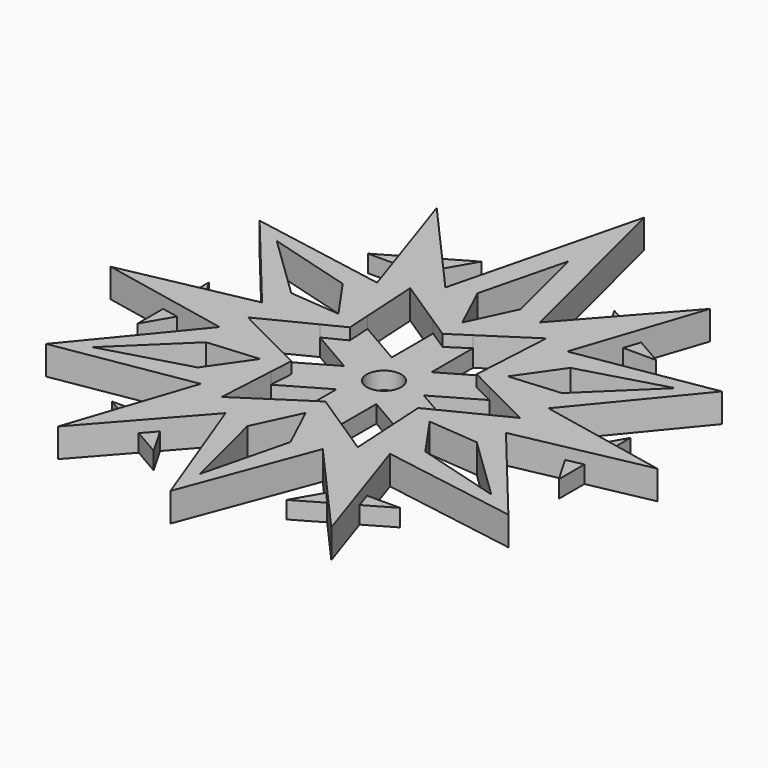
from build123d import *

# Parameters (mm, degrees)
F1_DEPTH = 1
F2_R     = 0.6
F3_DEPTH = 25
F5_DEPTH = 0.4
F7_DEPTH = 0.6


with BuildPart() as f1:
    # F0 (on Top) → F1 (new body)
    with BuildSketch(Plane.XY):
        with BuildLine():
            Line((0, 11.298485), (-1.644133, 4.721951))
            ThreePointArc((-1.644133, 4.721951), (-2.5, 4.330127), (-3.267263, 3.784837))
            Line((-3.267263, 3.784837), (-8.035331, 4.6392))
            Line((-8.035331, 4.6392), (-4.978388, 0.923433))
            Line((-4.978388, 0.923433), (-4.92561, 0.859281))
            ThreePointArc((-4.92561, 0.859281), (-5, 0), (-4.92561, -0.859281))
            Line((-4.92561, -0.859281), (-4.978388, -0.923433))
            Line((-4.978388, -0.923433), (-8.035331, -4.6392))
            Line((-8.035331, -4.6392), (-3.288911, -3.849694))
            Line((-3.288911, -3.849694), (-3.206964, -3.836063))
            ThreePointArc((-3.206964, -3.836063), (-2.5, -4.330127), (-1.718646, -4.695344))
            Line((-1.718646, -4.695344), (-1.689478, -4.773127))
            Line((-1.689478, -4.773127), (0, -9.278401))
            Line((0, -9.278401), (1.689478, -4.773127))
            Line((1.689478, -4.773127), (1.718646, -4.695344))
            ThreePointArc((1.718646, -4.695344), (2.5, -4.330127), (3.206964, -3.836063))
            Line((3.206964, -3.836063), (3.288911, -3.849694))
            Line((3.288911, -3.849694), (8.035331, -4.6392))
            Line((8.035331, -4.6392), (4.978388, -0.923433))
            Line((4.978388, -0.923433), (4.92561, -0.859281))
            ThreePointArc((4.92561, -0.859281), (5, 0), (4.92561, 0.859281))
            Line((4.92561, 0.859281), (4.978388, 0.923433))
            Line((4.978388, 0.923433), (8.035331, 4.6392))
            Line((8.035331, 4.6392), (3.288911, 3.849694))
            Line((3.288911, 3.849694), (3.206964, 3.836063))
            ThreePointArc((3.206964, 3.836063), (2.465661, 4.349772), (1.644133, 4.721951))
            Line((1.644133, 4.721951), (0, 11.298485))
        make_face()
        Polygon((-4.705127, -1.850481), (-3.955127, -3.149519), (-6.928203, -4), align=None, mode=Mode.SUBTRACT)
        Polygon((-0.75, -5), (0.75, -5), (0, -8), align=None, mode=Mode.SUBTRACT)
        Polygon((3.955127, -3.149519), (4.705127, -1.850481), (6.928203, -4), align=None, mode=Mode.SUBTRACT)
        Polygon((-3.955127, 3.149519), (-4.705127, 1.850481), (-6.928203, 4), align=None, mode=Mode.SUBTRACT)
        Polygon((4.705127, 1.850481), (3.955127, 3.149519), (6.928203, 4), align=None, mode=Mode.SUBTRACT)
        Polygon((-0.75, 5), (0, 8), (0.75, 5), align=None, mode=Mode.SUBTRACT)
        with BuildLine():
            ThreePointArc((-3.267263, 3.784837), (-2.5, 4.330127), (-1.644133, 4.721951))
            Line((-1.644133, 4.721951), (-4.75, 8.227241))
            Line((-4.75, 8.227241), (-3.267263, 3.784837))
        make_face()
        with BuildLine():
            Line((4.75, 8.227241), (1.644133, 4.721951))
            ThreePointArc((1.644133, 4.721951), (2.465661, 4.349772), (3.206964, 3.836063))
            Line((3.206964, 3.836063), (3.288911, 3.849694))
            Line((3.288911, 3.849694), (4.75, 8.227241))
        make_face()
        with BuildLine():
            Line((-4.92561, 0.859281), (-4.978388, 0.923433))
            Line((-4.978388, 0.923433), (-9.5, 0))
            Line((-9.5, 0), (-4.978388, -0.923433))
            Line((-4.978388, -0.923433), (-4.92561, -0.859281))
            ThreePointArc((-4.92561, -0.859281), (-5, 0), (-4.92561, 0.859281))
        make_face()
        with BuildLine():
            Line((9.5, 0), (4.978388, 0.923433))
            Line((4.978388, 0.923433), (4.92561, 0.859281))
            ThreePointArc((4.92561, 0.859281), (5, 0), (4.92561, -0.859281))
            Line((4.92561, -0.859281), (4.978388, -0.923433))
            Line((4.978388, -0.923433), (9.5, 0))
        make_face()
        with BuildLine():
            Line((-3.206964, -3.836063), (-3.288911, -3.849694))
            Line((-3.288911, -3.849694), (-4.75, -8.227241))
            Line((-4.75, -8.227241), (-1.689478, -4.773127))
            Line((-1.689478, -4.773127), (-1.718646, -4.695344))
            ThreePointArc((-1.718646, -4.695344), (-2.5, -4.330127), (-3.206964, -3.836063))
        make_face()
        with BuildLine():
            Line((4.75, -8.227241), (3.288911, -3.849694))
            Line((3.288911, -3.849694), (3.206964, -3.836063))
            ThreePointArc((3.206964, -3.836063), (2.5, -4.330127), (1.718646, -4.695344))
            Line((1.718646, -4.695344), (1.689478, -4.773127))
            Line((1.689478, -4.773127), (4.75, -8.227241))
        make_face()
    extrude(amount=F1_DEPTH)

    # F2 (on face) → F3 (cut)
    with BuildSketch(Plane.XY.offset(1)):
        Polygon((0.75, 5), (-0.75, 5), (0, 3.4), align=None)
        Polygon((2.365272, 4.096771), (0.69282, 3), (0.69282, 1.2), (2.251666, 2.1), align=None)
        Polygon((-2.944486, 1.7), (-3.955127, 3.149519), (-4.705127, 1.850481), align=None)
        Polygon((-0.69282, 3), (-2.365272, 4.096771), (-2.251666, 2.1), (-0.69282, 1.2), align=None)
        Polygon((-2.944486, -1.7), (-4.705127, -1.850481), (-3.955127, -3.149519), align=None)
        Polygon((-2.944486, 0.9), (-4.730543, 0), (-2.944486, -0.9), (-1.385641, 0), align=None)
        Polygon((0, -3.4), (-0.75, -5), (0.75, -5), align=None)
        Polygon((-2.251666, -2.1), (-2.365272, -4.096771), (-0.69282, -3), (-0.69282, -1.2), align=None)
        Polygon((2.944486, -1.7), (3.955127, -3.149519), (4.705127, -1.850481), align=None)
        Polygon((0.69282, -3), (2.365272, -4.096771), (2.251666, -2.1), (0.69282, -1.2), align=None)
        Polygon((2.944486, 1.7), (4.705127, 1.850481), (3.955127, 3.149519), align=None)
        Polygon((2.944486, -0.9), (4.730543, 0), (2.944486, 0.9), (1.385641, 0), align=None)
        Circle(F2_R)
    extrude(amount=-F3_DEPTH, mode=Mode.SUBTRACT)

    # F4 (on face) → F5 (cut)
    with BuildSketch(Plane.XY.offset(1)):
        Polygon((0, 2.545658), (-0.69282, 3), (-0.69282, 1.2), (-2.251666, 2.1), (-2.204604, 1.272829), (-2.944486, 0.9), (-1.385641, 0), (-2.944486, -0.9), (-2.204604, -1.272829), (-2.251666, -2.1), (-0.69282, -1.2), (-0.69282, -3), (0, -2.545658), (0.69282, -3), (0.69282, -1.2), (2.251666, -2.1), (2.204604, -1.272829), (2.944486, -0.9), (1.385641, 0), (2.944486, 0.9), (2.204604, 1.272829), (2.251666, 2.1), (0.69282, 1.2), (0.69282, 3), align=None)
    extrude(amount=-F5_DEPTH, mode=Mode.SUBTRACT)

    # F6 (on Top) → F7 (join)
    with BuildSketch(Plane.XY):
        Polygon((-2.311537, 7.120197), (-5.010503, 5.561948), (-3.211192, 5.561948), align=None)
        Polygon((-7.32204, 1.558248), (-7.32204, -1.558248), (-6.422384, 0), align=None)
        Polygon((-5.010503, -5.561948), (-2.311537, -7.120197), (-3.211192, -5.561948), align=None)
        Polygon((2.311537, -7.120197), (5.010503, -5.561948), (3.211192, -5.561948), align=None)
        Polygon((7.32204, -1.558248), (7.32204, 1.558248), (6.422384, 0), align=None)
        Polygon((5.010503, 5.561948), (2.311537, 7.120197), (3.211192, 5.561948), align=None)
    extrude(amount=F7_DEPTH)


solid = f1.part
